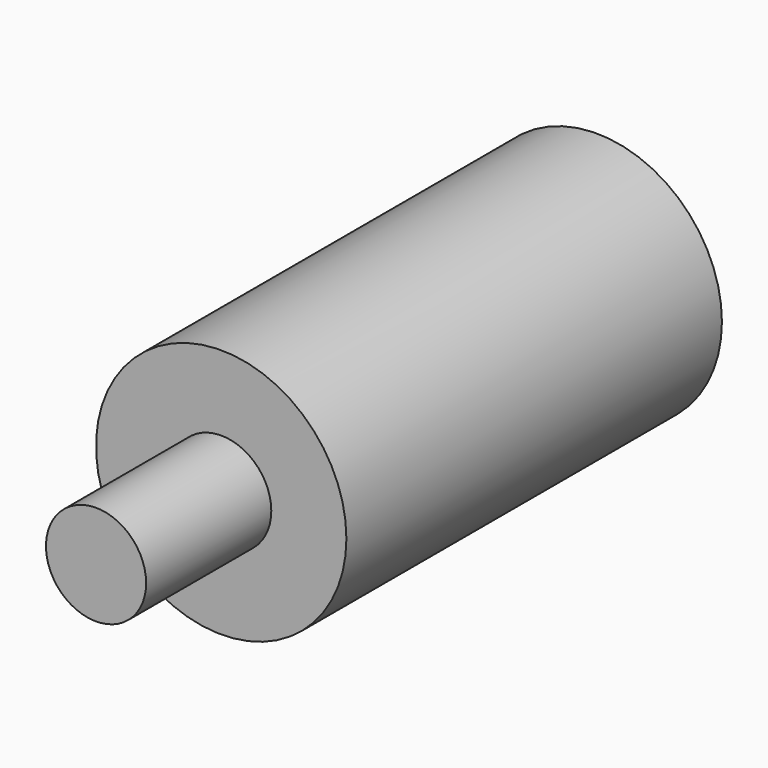
from build123d import *

# Parameters (mm, degrees)
CYLINDER1217_R     = 1.6
CYLINDER1217_DEPTH = 15
CYLINDER1202_R     = 4
CYLINDER1202_DEPTH = 15


with BuildPart() as cylinder1217:
    # Cylinder1217 → Cylinder1217 (new body)
    with BuildSketch(Plane(origin=(480, 87, 115), x_dir=(1, 0, 0), z_dir=(0, -1, 0))):
        Circle(CYLINDER1217_R)
    extrude(amount=CYLINDER1217_DEPTH)


with BuildPart() as fusion248002050129:
    # Cylinder1202 → Cylinder1202 (new body)
    with BuildSketch(Plane(origin=(480, 92, 115), x_dir=(1, 0, 0), z_dir=(0, -1, 0))):
        Circle(CYLINDER1202_R)
    extrude(amount=CYLINDER1202_DEPTH)

    # Fusion248002050129: union Cylinder1217
    add(cylinder1217.part)


with BuildPart() as fusion248002050129_1:
    # Fusion248002050129 placement: moved
    add(fusion248002050129.part.moved(Location((0.5, 0, 0))))


solid = fusion248002050129_1.part
